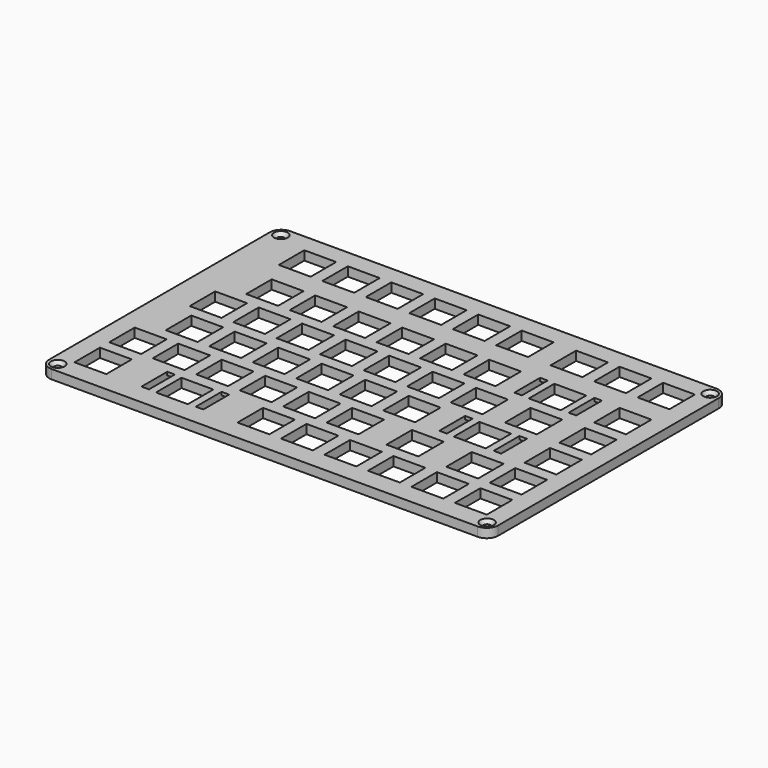
from build123d import *

# Parameters (mm, degrees)
RIGHT_PLATE_PAD_DEPTH          = 4
RIGHT_KEY_CUTOUTS_W            = 13.96
RIGHT_KEY_CUTOUTS_H            = 13.96
RIGHT_KEY_CUTOUTS_W_2          = 3.3004
RIGHT_KEY_CUTOUTS_H_2          = 14.1
RIGHT_KEY_CUTOUTS_W_3          = 3.3006
RIGHT_KEY_CUTOUTS_W_4          = 3.299
RIGHT_KEY_CUTOUTS_W_5          = 3.3
RIGHT_KEY_CUTOUTS_W_6          = 3.301
RIGHT_KEY_POCKETS_DEPTH        = 0.001
RIGHT_KEY_POCKETS_DEPTH_BACK   = 4.001
RIGHT_SCREW_HOLES_R            = 1.6
RIGHT_SCREW_POCKETS_DEPTH      = 0.001
RIGHT_SCREW_POCKETS_DEPTH_BACK = 4.001
RIGHT_SCREW_COUNTERSINK_SIZE2  = 1.5
RIGHT_SCREW_COUNTERSINK_SIZE   = 1.4
RIGHT_STAB_RELIEF_W            = 3.3004
RIGHT_STAB_RELIEF_H            = 1.2
RIGHT_STAB_RELIEF_W_2          = 3.3006
RIGHT_STAB_RELIEF_W_3          = 3.299
RIGHT_STAB_RELIEF_W_4          = 3.3
RIGHT_STAB_RELIEF_W_5          = 3.301
RIGHT_STAB_RELIEF_POCKET_DEPTH = 2.6


with BuildPart() as part:
    # Right_Plate_Outline → Right_Plate_Pad (new body)
    with BuildSketch(Plane.XY):
        with BuildLine():
            Line((-0.38035, -5.791), (186.307, -5.791))
            ThreePointArc((186.307, -5.791), (189.842534, -4.326534), (191.307, -0.791))
            Line((191.307, -0.791), (191.307, 119.971))
            ThreePointArc((191.307, 119.971), (189.842534, 123.506534), (186.307, 124.971))
            Line((186.307, 124.971), (-0.38035, 124.971))
            ThreePointArc((-0.38035, 124.971), (-3.915884, 123.506534), (-5.38035, 119.971))
            Line((-5.38035, 119.971), (-5.38035, -0.791))
            ThreePointArc((-5.38035, -0.791), (-3.915884, -4.326534), (-0.38035, -5.791))
        make_face()
    extrude(amount=RIGHT_PLATE_PAD_DEPTH)

    # Right_Key_Cutouts → Right_Key_Pockets (cut, two sides)
    with BuildSketch(Plane.XY) as right_key_pockets_sk:
        with Locations((9.619425, 9.959075)):
            Rectangle(RIGHT_KEY_CUTOUTS_W, RIGHT_KEY_CUTOUTS_H)
        with Locations((45.33745, 9.959075)):
            Rectangle(RIGHT_KEY_CUTOUTS_W, RIGHT_KEY_CUTOUTS_H)
        with Locations((81.05685, 9.959075)):
            Rectangle(RIGHT_KEY_CUTOUTS_W, RIGHT_KEY_CUTOUTS_H)
        with Locations((100.1071, 9.959075)):
            Rectangle(RIGHT_KEY_CUTOUTS_W, RIGHT_KEY_CUTOUTS_H)
        with Locations((119.157, 9.959075)):
            Rectangle(RIGHT_KEY_CUTOUTS_W, RIGHT_KEY_CUTOUTS_H)
        with Locations((138.207, 9.959075)):
            Rectangle(RIGHT_KEY_CUTOUTS_W, RIGHT_KEY_CUTOUTS_H)
        with Locations((157.257, 9.959075)):
            Rectangle(RIGHT_KEY_CUTOUTS_W, RIGHT_KEY_CUTOUTS_H)
        with Locations((176.307, 9.959075)):
            Rectangle(RIGHT_KEY_CUTOUTS_W, RIGHT_KEY_CUTOUTS_H)
        with Locations((9.619425, 29.009)):
            Rectangle(RIGHT_KEY_CUTOUTS_W, RIGHT_KEY_CUTOUTS_H)
        with Locations((28.66935, 29.009)):
            Rectangle(RIGHT_KEY_CUTOUTS_W, RIGHT_KEY_CUTOUTS_H)
        with Locations((47.71935, 29.009)):
            Rectangle(RIGHT_KEY_CUTOUTS_W, RIGHT_KEY_CUTOUTS_H)
        with Locations((66.76935, 29.009)):
            Rectangle(RIGHT_KEY_CUTOUTS_W, RIGHT_KEY_CUTOUTS_H)
        with Locations((85.81935, 29.009)):
            Rectangle(RIGHT_KEY_CUTOUTS_W, RIGHT_KEY_CUTOUTS_H)
        with Locations((104.86865, 29.009)):
            Rectangle(RIGHT_KEY_CUTOUTS_W, RIGHT_KEY_CUTOUTS_H)
        with Locations((131.0625, 29.009)):
            Rectangle(RIGHT_KEY_CUTOUTS_W, RIGHT_KEY_CUTOUTS_H)
        with Locations((157.257, 29.009)):
            Rectangle(RIGHT_KEY_CUTOUTS_W, RIGHT_KEY_CUTOUTS_H)
        with Locations((176.307, 29.009)):
            Rectangle(RIGHT_KEY_CUTOUTS_W, RIGHT_KEY_CUTOUTS_H)
        with Locations((19.1444, 48.05905)):
            Rectangle(RIGHT_KEY_CUTOUTS_W, RIGHT_KEY_CUTOUTS_H)
        with Locations((38.19435, 48.05905)):
            Rectangle(RIGHT_KEY_CUTOUTS_W, RIGHT_KEY_CUTOUTS_H)
        with Locations((57.24435, 48.05905)):
            Rectangle(RIGHT_KEY_CUTOUTS_W, RIGHT_KEY_CUTOUTS_H)
        with Locations((76.29435, 48.05905)):
            Rectangle(RIGHT_KEY_CUTOUTS_W, RIGHT_KEY_CUTOUTS_H)
        with Locations((95.34435, 48.05905)):
            Rectangle(RIGHT_KEY_CUTOUTS_W, RIGHT_KEY_CUTOUTS_H)
        with Locations((114.3945, 48.05905)):
            Rectangle(RIGHT_KEY_CUTOUTS_W, RIGHT_KEY_CUTOUTS_H)
        with Locations((145.3505, 48.05905)):
            Rectangle(RIGHT_KEY_CUTOUTS_W, RIGHT_KEY_CUTOUTS_H)
        with Locations((176.307, 48.05905)):
            Rectangle(RIGHT_KEY_CUTOUTS_W, RIGHT_KEY_CUTOUTS_H)
        with Locations((14.38193, 67.10905)):
            Rectangle(RIGHT_KEY_CUTOUTS_W, RIGHT_KEY_CUTOUTS_H)
        with Locations((33.43185, 67.10905)):
            Rectangle(RIGHT_KEY_CUTOUTS_W, RIGHT_KEY_CUTOUTS_H)
        with Locations((52.48185, 67.10905)):
            Rectangle(RIGHT_KEY_CUTOUTS_W, RIGHT_KEY_CUTOUTS_H)
        with Locations((71.53185, 67.10905)):
            Rectangle(RIGHT_KEY_CUTOUTS_W, RIGHT_KEY_CUTOUTS_H)
        with Locations((90.58185, 67.10905)):
            Rectangle(RIGHT_KEY_CUTOUTS_W, RIGHT_KEY_CUTOUTS_H)
        with Locations((109.632, 67.10905)):
            Rectangle(RIGHT_KEY_CUTOUTS_W, RIGHT_KEY_CUTOUTS_H)
        with Locations((128.682, 67.10905)):
            Rectangle(RIGHT_KEY_CUTOUTS_W, RIGHT_KEY_CUTOUTS_H)
        with Locations((152.4945, 67.10905)):
            Rectangle(RIGHT_KEY_CUTOUTS_W, RIGHT_KEY_CUTOUTS_H)
        with Locations((176.307, 67.10905)):
            Rectangle(RIGHT_KEY_CUTOUTS_W, RIGHT_KEY_CUTOUTS_H)
        with Locations((23.9069, 86.15905)):
            Rectangle(RIGHT_KEY_CUTOUTS_W, RIGHT_KEY_CUTOUTS_H)
        with Locations((42.95685, 86.15905)):
            Rectangle(RIGHT_KEY_CUTOUTS_W, RIGHT_KEY_CUTOUTS_H)
        with Locations((62.00685, 86.15905)):
            Rectangle(RIGHT_KEY_CUTOUTS_W, RIGHT_KEY_CUTOUTS_H)
        with Locations((81.05685, 86.15905)):
            Rectangle(RIGHT_KEY_CUTOUTS_W, RIGHT_KEY_CUTOUTS_H)
        with Locations((100.1071, 86.15905)):
            Rectangle(RIGHT_KEY_CUTOUTS_W, RIGHT_KEY_CUTOUTS_H)
        with Locations((119.157, 86.15905)):
            Rectangle(RIGHT_KEY_CUTOUTS_W, RIGHT_KEY_CUTOUTS_H)
        with Locations((147.732, 86.15905)):
            Rectangle(RIGHT_KEY_CUTOUTS_W, RIGHT_KEY_CUTOUTS_H)
        with Locations((176.307, 86.15905)):
            Rectangle(RIGHT_KEY_CUTOUTS_W, RIGHT_KEY_CUTOUTS_H)
        with Locations((19.1444, 109.971)):
            Rectangle(RIGHT_KEY_CUTOUTS_W, RIGHT_KEY_CUTOUTS_H)
        with Locations((38.19435, 109.971)):
            Rectangle(RIGHT_KEY_CUTOUTS_W, RIGHT_KEY_CUTOUTS_H)
        with Locations((57.24435, 109.971)):
            Rectangle(RIGHT_KEY_CUTOUTS_W, RIGHT_KEY_CUTOUTS_H)
        with Locations((76.29435, 109.971)):
            Rectangle(RIGHT_KEY_CUTOUTS_W, RIGHT_KEY_CUTOUTS_H)
        with Locations((95.34435, 109.971)):
            Rectangle(RIGHT_KEY_CUTOUTS_W, RIGHT_KEY_CUTOUTS_H)
        with Locations((114.3945, 109.971)):
            Rectangle(RIGHT_KEY_CUTOUTS_W, RIGHT_KEY_CUTOUTS_H)
        with Locations((138.207, 109.971)):
            Rectangle(RIGHT_KEY_CUTOUTS_W, RIGHT_KEY_CUTOUTS_H)
        with Locations((157.257, 109.971)):
            Rectangle(RIGHT_KEY_CUTOUTS_W, RIGHT_KEY_CUTOUTS_H)
        with Locations((176.307, 109.971)):
            Rectangle(RIGHT_KEY_CUTOUTS_W, RIGHT_KEY_CUTOUTS_H)
        with Locations((33.4374, 10.30935)):
            Rectangle(RIGHT_KEY_CUTOUTS_W_2, RIGHT_KEY_CUTOUTS_H_2)
        with Locations((57.2375, 10.30935)):
            Rectangle(RIGHT_KEY_CUTOUTS_W_3, RIGHT_KEY_CUTOUTS_H_2)
        with Locations((133.4505, 48.40945)):
            Rectangle(RIGHT_KEY_CUTOUTS_W_4, RIGHT_KEY_CUTOUTS_H_2)
        with Locations((157.2505, 48.40945)):
            Rectangle(RIGHT_KEY_CUTOUTS_W_4, RIGHT_KEY_CUTOUTS_H_2)
        with Locations((135.831, 86.50945)):
            Rectangle(RIGHT_KEY_CUTOUTS_W_5, RIGHT_KEY_CUTOUTS_H_2)
        with Locations((159.6315, 86.50945)):
            Rectangle(RIGHT_KEY_CUTOUTS_W_6, RIGHT_KEY_CUTOUTS_H_2)
    extrude(amount=-RIGHT_KEY_POCKETS_DEPTH, mode=Mode.SUBTRACT)
    extrude(right_key_pockets_sk.sketch, amount=RIGHT_KEY_POCKETS_DEPTH_BACK, mode=Mode.SUBTRACT)

    # Right_Screw_Holes → Right_Screw_Pockets (cut, two sides)
    with BuildSketch(Plane.XY) as right_screw_pockets_sk:
        with Locations((-1.08035, -1.491)):
            Circle(RIGHT_SCREW_HOLES_R)
        with Locations((187.007, -1.491)):
            Circle(RIGHT_SCREW_HOLES_R)
        with Locations((-1.08035, 120.671)):
            Circle(RIGHT_SCREW_HOLES_R)
        with Locations((187.007, 120.671)):
            Circle(RIGHT_SCREW_HOLES_R)
    extrude(amount=-RIGHT_SCREW_POCKETS_DEPTH, mode=Mode.SUBTRACT)
    extrude(right_screw_pockets_sk.sketch, amount=RIGHT_SCREW_POCKETS_DEPTH_BACK, mode=Mode.SUBTRACT)

    # Right_Screw_Countersink
    right_screw_countersink_edges = [part.edges().sort_by_distance(p)[0] for p in [
        (-2.68035, -1.491, 4),
        (185.407, -1.491, 4),
        (-2.68035, 120.671, 4),
        (185.407, 120.671, 4),
    ]]
    right_screw_countersink_side = part.faces().sort_by_distance((92.963325, -3.429123, 4))[0]
    chamfer(right_screw_countersink_edges, length=RIGHT_SCREW_COUNTERSINK_SIZE, length2=RIGHT_SCREW_COUNTERSINK_SIZE2, reference=right_screw_countersink_side)

    # Right_Stab_Relief → Right_Stab_Relief_Pocket (cut)
    with BuildSketch(Plane.XY):
        with Locations((33.4374, 17.95935)):
            Rectangle(RIGHT_STAB_RELIEF_W, RIGHT_STAB_RELIEF_H)
        with Locations((33.4374, 2.65935)):
            Rectangle(RIGHT_STAB_RELIEF_W, RIGHT_STAB_RELIEF_H)
        with Locations((57.2375, 17.95935)):
            Rectangle(RIGHT_STAB_RELIEF_W_2, RIGHT_STAB_RELIEF_H)
        with Locations((57.2375, 2.65935)):
            Rectangle(RIGHT_STAB_RELIEF_W_2, RIGHT_STAB_RELIEF_H)
        with Locations((133.4505, 56.05945)):
            Rectangle(RIGHT_STAB_RELIEF_W_3, RIGHT_STAB_RELIEF_H)
        with Locations((133.4505, 40.75945)):
            Rectangle(RIGHT_STAB_RELIEF_W_3, RIGHT_STAB_RELIEF_H)
        with Locations((157.2505, 56.05945)):
            Rectangle(RIGHT_STAB_RELIEF_W_3, RIGHT_STAB_RELIEF_H)
        with Locations((157.2505, 40.75945)):
            Rectangle(RIGHT_STAB_RELIEF_W_3, RIGHT_STAB_RELIEF_H)
        with Locations((135.831, 94.15945)):
            Rectangle(RIGHT_STAB_RELIEF_W_4, RIGHT_STAB_RELIEF_H)
        with Locations((135.831, 78.85945)):
            Rectangle(RIGHT_STAB_RELIEF_W_4, RIGHT_STAB_RELIEF_H)
        with Locations((159.6315, 94.15945)):
            Rectangle(RIGHT_STAB_RELIEF_W_5, RIGHT_STAB_RELIEF_H)
        with Locations((159.6315, 78.85945)):
            Rectangle(RIGHT_STAB_RELIEF_W_5, RIGHT_STAB_RELIEF_H)
    extrude(amount=RIGHT_STAB_RELIEF_POCKET_DEPTH, mode=Mode.SUBTRACT)


with BuildPart() as part_1:
    # Right_Switch_Plate placement: moved
    add(part.part.moved(Location((174.06235, 0, 0))))


solid = part_1.part
